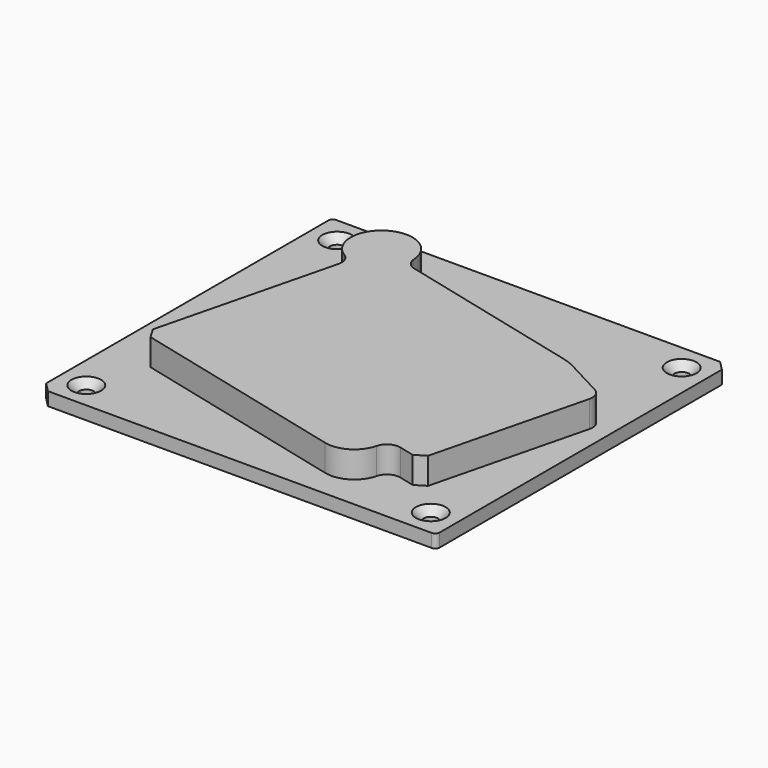
from build123d import *

# Parameters (mm, degrees)
PAD_DEPTH        = 6
HOLE_D           = 6.6
HOLE_DEPTH       = 25
HOLE_CSINK_D     = 13.44
HOLE_CSINK_ANGLE = 90
PAD001_DEPTH     = 12


with BuildPart() as part:
    # Sketch → Pad (new body)
    with BuildSketch(Plane.XY):
        with BuildLine():
            ThreePointArc((2, 166), (0.585786, 165.414214), (0, 164))
            Line((0, 164), (0, 4.242641))
            Line((0, 4.242641), (4.242641, 0))
            Line((4.242641, 0), (178, 0))
            ThreePointArc((178, 0), (179.414214, 0.585786), (180, 2))
            Line((180, 2), (180, 161.757359))
            Line((175.757359, 166), (180, 161.757359))
            Line((175.757359, 166), (2, 166))
        make_face()
    extrude(amount=PAD_DEPTH)

    # Hole
    with Locations(Plane.XY.offset(6)):
        with Locations((12, 154), (168, 154), (168, 12), (12, 12)):
            CounterSinkHole(HOLE_D / 2, HOLE_CSINK_D / 2, depth=HOLE_DEPTH, counter_sink_angle=HOLE_CSINK_ANGLE)

    # Sketch002 (on Face5 of Hole) → Pad001 (join)
    with BuildSketch(Plane.XY.offset(6)):
        with BuildLine():
            ThreePointArc((56.618237, 141.695686), (35.433188, 152.851689), (35.337576, 128.908975))
            ThreePointArc((38.028145, 122.339284), (37.758773, 126.064762), (35.337576, 128.908975))
            Line((38.028145, 122.339284), (18.026388, 42.116616))
            Line((18.026388, 42.116616), (21.116616, 36.973612))
            Line((119.851347, 12.356279), (21.116616, 36.973612))
            ThreePointArc((119.851347, 12.356279), (129.691827, 13.826949), (135.610176, 21.825139))
            ThreePointArc((142.883482, 26.195382), (138.341722, 25.516611), (135.610176, 21.825139))
            Line((149.78317, 24.475096), (142.883482, 26.195382))
            Line((149.78317, 24.475096), (154.49759, 27.307806))
            Line((171.860307, 96.945859), (154.49759, 27.307806))
            ThreePointArc((171.860307, 96.945859), (171.519804, 100.837813), (168.855356, 103.695079))
            Line((151.638919, 112.849221), (168.855356, 103.695079))
            ThreePointArc((151.638919, 112.849221), (148.639117, 114.216311), (145.495068, 115.207626))
            Line((145.495068, 115.207626), (61.155784, 136.235771))
            ThreePointArc((56.618237, 141.695686), (57.992845, 138.222619), (61.155784, 136.235771))
        make_face()
    extrude(amount=PAD001_DEPTH)


solid = part.part
